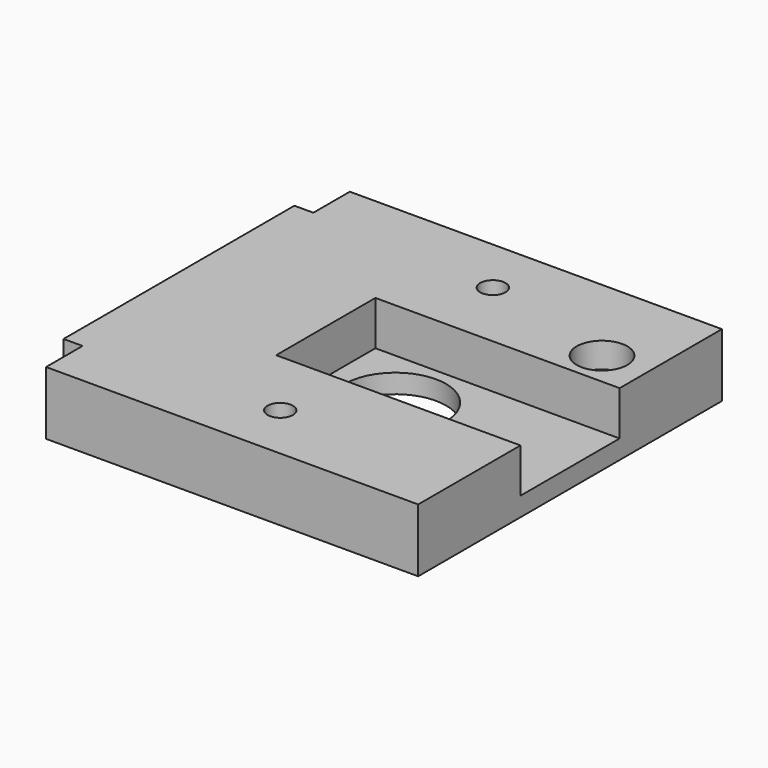
from build123d import *

# Parameters (mm, degrees)
CIRCLE034_R      = 2
EXTRUDE206_DEPTH = 2
CIRCLE_R         = 1
EXTRUDE086_DEPTH = 5
CIRCLE025_R      = 1
EXTRUDE088_DEPTH = 5
CIRCLE022_R      = 4
EXTRUDE160_DEPTH = 5
CIRCLE030_R      = 2.65
EXTRUDE173_DEPTH = 2
CIRCLE031_R      = 2.65
EXTRUDE174_DEPTH = 2
RECTANGLE045_W   = 19.3
RECTANGLE045_H   = 9.8
EXTRUDE085_DEPTH = 3.5
RECTANGLE043_W   = 29.4
RECTANGLE043_H   = 30
EXTRUDE083_DEPTH = 5
RECTANGLE044_W   = 1.5
RECTANGLE044_H   = 22.8
EXTRUDE095_DEPTH = 5


with BuildPart() as extrude206:
    # Circle034 → Extrude206 (new body)
    with BuildSketch(Plane(origin=(38.514674, -97.235972, -14.1), x_dir=(1, 0, 0), z_dir=(0, 0, 1))):
        Circle(CIRCLE034_R)
    extrude(amount=-EXTRUDE206_DEPTH)


with BuildPart() as extrude086:
    # Circle → Extrude086 (new body)
    with BuildSketch(Plane(origin=(27.579856, -94.349147, -14.1), x_dir=(1, 0, 0), z_dir=(0, 0, 1))):
        Circle(CIRCLE_R)
    extrude(amount=-EXTRUDE086_DEPTH)


with BuildPart() as extrude088:
    # Circle025 → Extrude088 (new body)
    with BuildSketch(Plane(origin=(27.579856, -115.349147, -14.1), x_dir=(1, 0, 0), z_dir=(0, 0, 1))):
        Circle(CIRCLE025_R)
    extrude(amount=-EXTRUDE088_DEPTH)


with BuildPart() as extrude160:
    # Circle022 → Extrude160 (new body)
    with BuildSketch(Plane(origin=(28.279856, -104.849147, -14.1), x_dir=(1, 0, 0), z_dir=(0, 0, 1))):
        Circle(CIRCLE022_R)
    extrude(amount=-EXTRUDE160_DEPTH)


with BuildPart() as extrude173:
    # Circle030 → Extrude173 (new body)
    with BuildSketch(Plane(origin=(27.579856, -94.349147, -19.1), x_dir=(1, 0, 0), z_dir=(0, 0, 1))):
        Circle(CIRCLE030_R)
    extrude(amount=EXTRUDE173_DEPTH)


with BuildPart() as extrude174:
    # Circle031 → Extrude174 (new body)
    with BuildSketch(Plane(origin=(27.579856, -115.349147, -19.1), x_dir=(1, 0, 0), z_dir=(0, 0, 1))):
        Circle(CIRCLE031_R)
    extrude(amount=EXTRUDE174_DEPTH)


with BuildPart() as extrude085:
    # Rectangle045 → Extrude085 (new body)
    with BuildSketch(Plane(origin=(22.779856, -109.749147, -14.1), x_dir=(1, 0, 0), z_dir=(0, 0, 1))):
        with Locations((9.65, 4.9)):
            Rectangle(RECTANGLE045_W, RECTANGLE045_H)
    extrude(amount=-EXTRUDE085_DEPTH)


with BuildPart() as cut107:
    # Rectangle043 → Extrude083 (new body)
    with BuildSketch(Plane(origin=(12.679856, -119.849147, -14.1), x_dir=(1, 0, 0), z_dir=(0, 0, 1))):
        with Locations((14.7, 15)):
            Rectangle(RECTANGLE043_W, RECTANGLE043_H)
    extrude(amount=-EXTRUDE083_DEPTH)

    # Cut027: cut Extrude085
    add(extrude085.part, mode=Mode.SUBTRACT)

    # Cut086: cut Extrude174
    add(extrude174.part, mode=Mode.SUBTRACT)

    # Cut087: cut Extrude173
    add(extrude173.part, mode=Mode.SUBTRACT)

    # Cut088: cut Extrude160
    add(extrude160.part, mode=Mode.SUBTRACT)

    # Cut089: cut Extrude088
    add(extrude088.part, mode=Mode.SUBTRACT)

    # Cut090: cut Extrude086
    add(extrude086.part, mode=Mode.SUBTRACT)

    # Cut107: cut Extrude206
    add(extrude206.part, mode=Mode.SUBTRACT)


with BuildPart() as fusion_lens_cover:
    # Rectangle044 → Extrude095 (new body)
    with BuildSketch(Plane(origin=(11.179856, -116.249147, -14.1), x_dir=(1, 0, 0), z_dir=(0, 0, 1))):
        with Locations((0.75, 11.4)):
            Rectangle(RECTANGLE044_W, RECTANGLE044_H)
    extrude(amount=-EXTRUDE095_DEPTH)

    # Fusion047: union Cut107
    add(cut107.part)


solid = fusion_lens_cover.part
